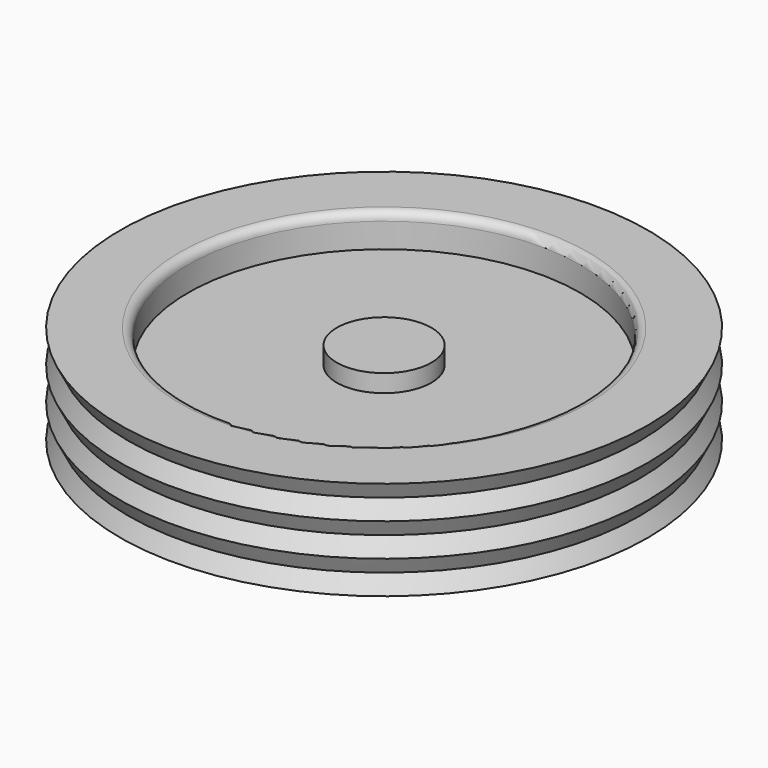
from build123d import *

# Parameters (mm, degrees)
F2_R = 3.175


with BuildPart() as f1:
    # F0 (on Front) → F1 (revolve)
    with BuildSketch(Plane.XZ):
        Polygon((0, 13.427813), (0, 0), (0, -12.744295), (18.212431, -12.744295), (18.212431, -6.062221), (75.47357, -6.062221), (75.47357, -18.762221), (101.557485, -18.762221), (98.382485, -12.412221), (101.557485, -6.062221), (98.382485, 0.287779), (101.557485, 6.637779), (98.382485, 12.987779), (101.557485, 19.337779), (75.47357, 19.337779), (75.47357, 6.637779), (18.212431, 6.637779), (18.212431, 13.427813), align=None)
    revolve(axis=Axis((0, 0, 6.713907), (0, 0, 1)))

    # F2
    f2_edges = [f1.edges().sort_by_distance(p)[0] for p in [
        (-75.47357, 0, 19.337779),
    ]]
    fillet(f2_edges, radius=F2_R)


solid = f1.part
